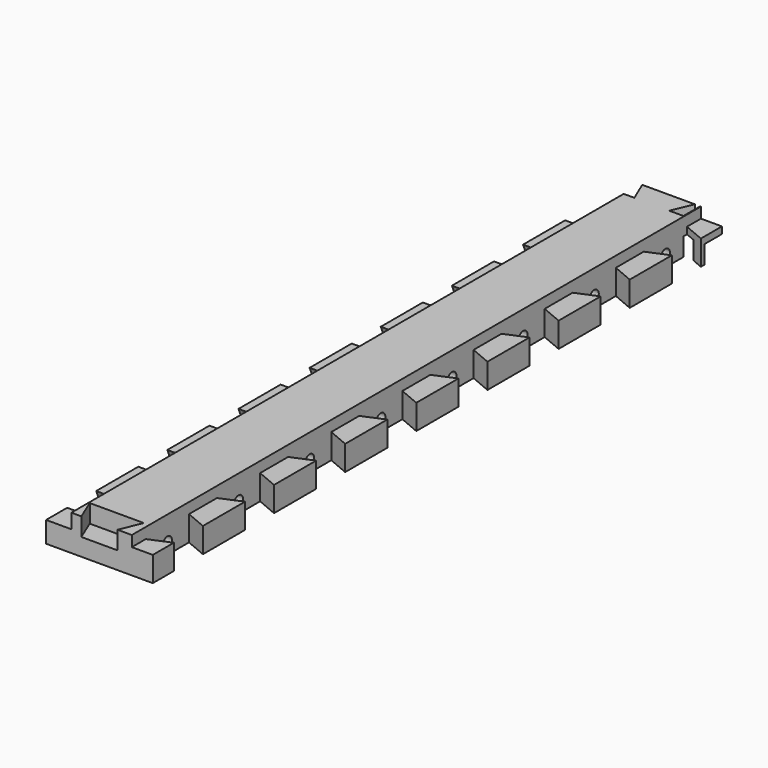
from build123d import *

# Parameters (mm, degrees)
SKETCH_W        = 30
SKETCH_H        = 200
PAD_DEPTH       = 10
POCKET_DEPTH    = 7.1
SKETCH002_W     = 200
SKETCH002_H     = 4.1
POCKET001_DEPTH = 7.1
SKETCH003_R     = 1.6
POCKET002_DEPTH = 25
SKETCH004_W     = 2.6
SKETCH004_H     = 5.7
POCKET003_DEPTH = 6.15
SKETCH006_W     = 200
SKETCH006_H     = 3
POCKET005_DEPTH = 5.9
POCKET006_DEPTH = 10
SKETCH008_W     = 5.9
SKETCH008_H     = 200
POCKET007_DEPTH = 3
POCKET008_DEPTH = 5.1
SKETCH010_W     = 30
SKETCH010_H     = 6.1
POCKET009_DEPTH = 5.1
POCKET010_DEPTH = 5


with BuildPart() as part:
    # Sketch → Pad (new body)
    with BuildSketch(Plane.XY):
        with Locations((15, 100)):
            Rectangle(SKETCH_W, SKETCH_H)
    extrude(amount=PAD_DEPTH)

    # Sketch001 (on Face4 of Pad) → Pocket (cut)
    with BuildSketch(Plane(origin=(0, 0, 0), x_dir=(0, -1, 0), z_dir=(-1, 0, 0))):
        Polygon((-199.7, 5.9), (-199.9, 0), (-179.9, 0), (-182.4, 5.9), align=None)
        Polygon((-167.6, 5.9), (-170.1, 0), (-154.9, 0), (-157.4, 5.9), align=None)
        Polygon((-142.6, 5.9), (-145.1, 0), (-129.9, 0), (-132.4, 5.9), align=None)
        Polygon((-117.6, 5.9), (-120.1, 0), (-104.9, 0), (-107.4, 5.9), align=None)
        Polygon((-92.6, 5.9), (-95.1, 0), (-79.9, 0), (-82.4, 5.9), align=None)
        Polygon((-67.6, 5.9), (-70.1, 0), (-54.9, 0), (-57.4, 5.9), align=None)
        Polygon((-42.6, 5.9), (-45.1, 0), (-29.9, 0), (-32.4, 5.9), align=None)
        Polygon((-17.6, 5.9), (-20.1, 0), (-4.9, 0), (-7.4, 5.9), align=None)
    extrude(amount=-POCKET_DEPTH, mode=Mode.SUBTRACT)

    # Sketch002 (on Face2 of Pocket) → Pocket001 (cut)
    with BuildSketch(Plane(origin=(0, 0, 0), x_dir=(0, -1, 0), z_dir=(-1, 0, 0))):
        with Locations((-100, 7.95)):
            Rectangle(SKETCH002_W, SKETCH002_H)
    extrude(amount=-POCKET001_DEPTH, mode=Mode.SUBTRACT)

    # Sketch003 (on Face9 of Pocket001) → Pocket002 (cut)
    with BuildSketch(Plane(origin=(7.1, 0, 0), x_dir=(0, -1, 0), z_dir=(-1, 0, 0))):
        with Locations((-37.5, 3)):
            Circle(SKETCH003_R)
        with Locations((-12.5, 3)):
            Circle(SKETCH003_R)
        with Locations((-62.5, 3)):
            Circle(SKETCH003_R)
        with Locations((-87.5, 3)):
            Circle(SKETCH003_R)
        with Locations((-112.5, 3)):
            Circle(SKETCH003_R)
        with Locations((-137.5, 3)):
            Circle(SKETCH003_R)
        with Locations((-162.5, 3)):
            Circle(SKETCH003_R)
        with Locations((-187.5, 3)):
            Circle(SKETCH003_R)
    extrude(amount=-POCKET002_DEPTH, mode=Mode.SUBTRACT)

    # Sketch004 (on Face2 of Pocket002) → Pocket003 (cut)
    with BuildSketch(Plane(origin=(0, 0, 0), x_dir=(1, 0, 0), z_dir=(0, 0, -1))):
        with Locations((15, -12.5)):
            Rectangle(SKETCH004_W, SKETCH004_H)
        with Locations((15, -37.5)):
            Rectangle(SKETCH004_W, SKETCH004_H)
        with Locations((15, -62.5)):
            Rectangle(SKETCH004_W, SKETCH004_H)
        with Locations((15, -87.5)):
            Rectangle(SKETCH004_W, SKETCH004_H)
        with Locations((15, -112.5)):
            Rectangle(SKETCH004_W, SKETCH004_H)
        with Locations((15, -137.5)):
            Rectangle(SKETCH004_W, SKETCH004_H)
        with Locations((15, -162.5)):
            Rectangle(SKETCH004_W, SKETCH004_H)
        with Locations((15, -187.5)):
            Rectangle(SKETCH004_W, SKETCH004_H)
    extrude(amount=-POCKET003_DEPTH, mode=Mode.SUBTRACT)

    # Sketch006 → Pocket005 (cut)
    with BuildSketch(Plane(origin=(0, 4.15414, -1.760229), x_dir=(-1, 0, 0), z_dir=(0, 0.920752, -0.390149))):
        with Locations((100, 8.5)):
            Rectangle(SKETCH006_W, SKETCH006_H)
    extrude(amount=-POCKET005_DEPTH, mode=Mode.SUBTRACT)

    # Sketch007 (on Face4 of Pocket005) → Pocket006 (cut)
    with BuildSketch(Plane.XY.offset(10)):
        Polygon((24.1, 20.1), (24.1, 4.9), (30, 7.4), (30, 17.6), align=None)
        Polygon((24.1, 45.1), (24.1, 29.9), (30, 32.4), (30, 42.6), align=None)
        Polygon((24.1, 70.1), (24.1, 54.9), (30, 57.4), (30, 67.6), align=None)
        Polygon((24.1, 95.1), (24.1, 79.9), (30, 82.4), (30, 92.6), align=None)
        Polygon((24.1, 120.1), (24.1, 104.9), (30, 107.4), (30, 117.6), align=None)
        Polygon((24.1, 145.1), (24.1, 129.9), (30, 132.4), (30, 142.6), align=None)
        Polygon((24.1, 170.1), (24.1, 154.9), (30, 157.4), (30, 167.6), align=None)
        Polygon((24.1, 195.1), (24.1, 179.9), (30, 182.4), (30, 192.6), align=None)
    extrude(amount=-POCKET006_DEPTH, mode=Mode.SUBTRACT)

    # Sketch008 (on Face4 of Pocket006) → Pocket007 (cut)
    with BuildSketch(Plane.XY.offset(10)):
        with Locations((27.05, 100)):
            Rectangle(SKETCH008_W, SKETCH008_H)
    extrude(amount=-POCKET007_DEPTH, mode=Mode.SUBTRACT)

    # Sketch009 (on Face6 of Pocket007) → Pocket008 (cut)
    with BuildSketch(Plane.XY.offset(10)):
        Polygon((7.4, 6.1), (22.6, 6.1), (20.1, 0), (9.9, 0), align=None)
    extrude(amount=-POCKET008_DEPTH, mode=Mode.SUBTRACT)

    # Sketch010 (on Face2 of Pocket008) → Pocket009 (cut)
    with BuildSketch(Plane(origin=(0, 0, 0), x_dir=(1, 0, 0), z_dir=(0, 0, -1))):
        with Locations((15, -196.95)):
            Rectangle(SKETCH010_W, SKETCH010_H)
    extrude(amount=-POCKET009_DEPTH, mode=Mode.SUBTRACT)

    # Sketch011 (on Face6 of Pocket009) → Pocket010 (cut)
    with BuildSketch(Plane.XY.offset(10)):
        Polygon((7.6, 200), (10.1, 194.1), (0, 194.1), (0, 200), align=None)
        Polygon((22.4, 200), (19.9, 194.1), (23.9, 194.1), (23.9, 200), align=None)
    extrude(amount=-POCKET010_DEPTH, mode=Mode.SUBTRACT)


solid = part.part
